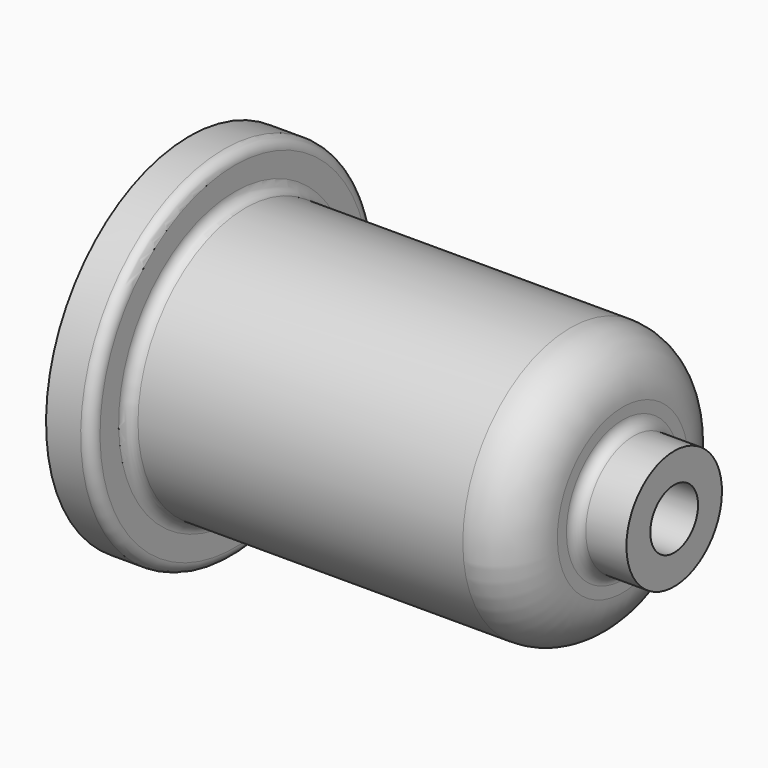
from build123d import *


with BuildPart() as f1:
    # F0 (on Front) → F1 (revolve)
    with BuildSketch(Plane.XZ):
        with BuildLine():
            Line((-18.796, 6.35), (0, 6.35))
            Line((0, 6.35), (0, 12.7))
            Line((0, 12.7), (-8.636, 12.7))
            ThreePointArc((-8.636, 12.7), (-10.252446, 13.369554), (-10.922, 14.986))
            Line((-10.922, 14.986), (-10.922, 17.399))
            ThreePointArc((-10.922, 17.399), (-14.195375, 25.301625), (-22.098, 28.575))
            Line((-22.098, 28.575), (-91.186, 28.575))
            ThreePointArc((-91.186, 28.575), (-92.802446, 29.244554), (-93.472, 30.861))
            Line((-93.472, 30.861), (-93.472, 35.814))
            ThreePointArc((-93.472, 35.814), (-94.141554, 37.430446), (-95.758, 38.1))
            Line((-95.758, 38.1), (-103.124, 38.1))
            Line((-103.124, 38.1), (-103.124, 34.925))
            Line((-103.124, 34.925), (-100.838, 34.925))
            Line((-100.838, 34.925), (-100.838, 22.225))
            Line((-100.838, 22.225), (-71.374, 22.225))
            Line((-71.374, 22.225), (-71.374, 6.35))
            Line((-71.374, 6.35), (-65.024, 6.35))
            Line((-65.024, 6.35), (-65.024, 22.225))
            Line((-65.024, 22.225), (-18.796, 22.225))
            Line((-18.796, 22.225), (-18.796, 6.35))
        make_face()
    revolve(axis=Axis((-51.562, 0, 0), (1, 0, 0)))


solid = f1.part
